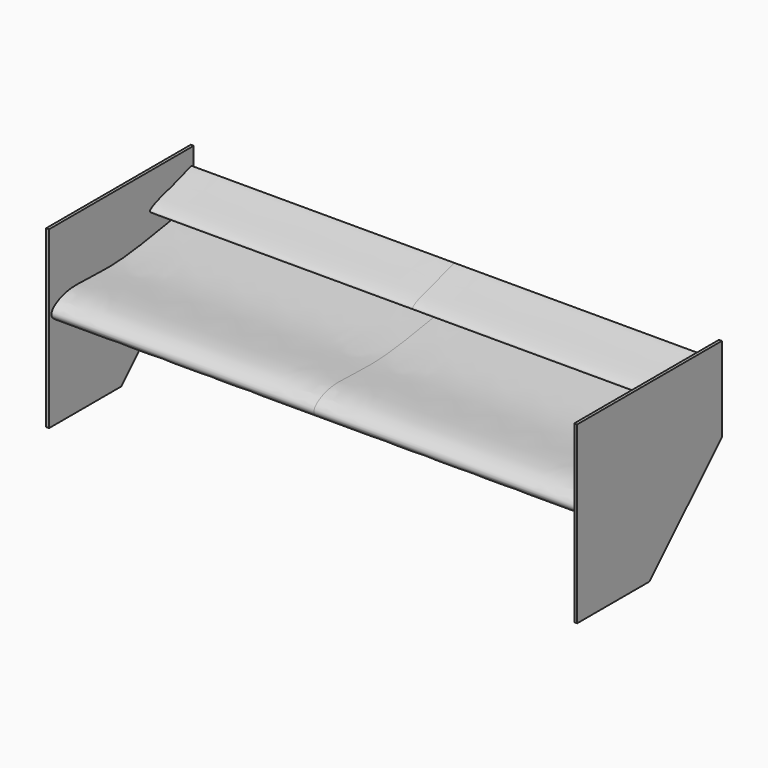
from build123d import *

# Parameters (mm, degrees)
F1_DEPTH = 450
F3_DEPTH = 5
F6_DEPTH = 450


with BuildPart() as f1:
    # F0 (on Right) → F1 (new body, symmetric)
    with BuildSketch(Plane.YZ):
        with BuildLine():
            add(Edge.make_bspline(
                [(-150, 20), (-149.4534025256, 27.8617049178), (-111.124322052, 51.653037631), (-13.1974217102, 27.9038504844), (215.7806270185, 85.6795659235), (38.1718984796, -8.49973387), (-110.9530645063, -11.0268811483), (-150.5465974744, 12.1382950822), (-150, 20)],
                knots=[0, 0, 0, 0, 0.1019821913, 0.2880448745, 0.4967996604, 0.6763829839, 0.8980178087, 1, 1, 1, 1], degree=3))
        make_face()
    extrude(amount=F1_DEPTH, both=True)

    # F2 (on face) → F3 (join)
    with BuildSketch(Plane.YZ.offset(450)):
        Polygon((155, 150), (-155, 150), (-155, -150), (0, -150), (155, 5), align=None)
    extrude(amount=F3_DEPTH)

    # F4: F1 across plane


with BuildPart() as f1_1:
    add(f1.part)
    add(f1.part.mirror(Plane.YZ))

    # F5 (on Right) → F6 (join, symmetric)
    with BuildSketch(Plane.YZ):
        with BuildLine():
            add(Edge.make_bspline(
                [(81.1209009165, 100.13648171), (94.1973323132, 104.572569634), (116.2023410468, 109.3870300731), (164.7795729164, 128.4313940785), (124.1749024324, 100.1007050071), (83.3932977974, 79.6867510477), (51.9479200117, 88.7793222775), (71.4534483391, 96.8568660156), (81.1209009165, 100.13648171)],
                knots=[0, 0, 0, 0, 0.1915403863, 0.3574192266, 0.5162715926, 0.7336246624, 0.8583935063, 1, 1, 1, 1], degree=3))
        make_face()
    extrude(amount=F6_DEPTH, both=True)


solid = f1_1.part
